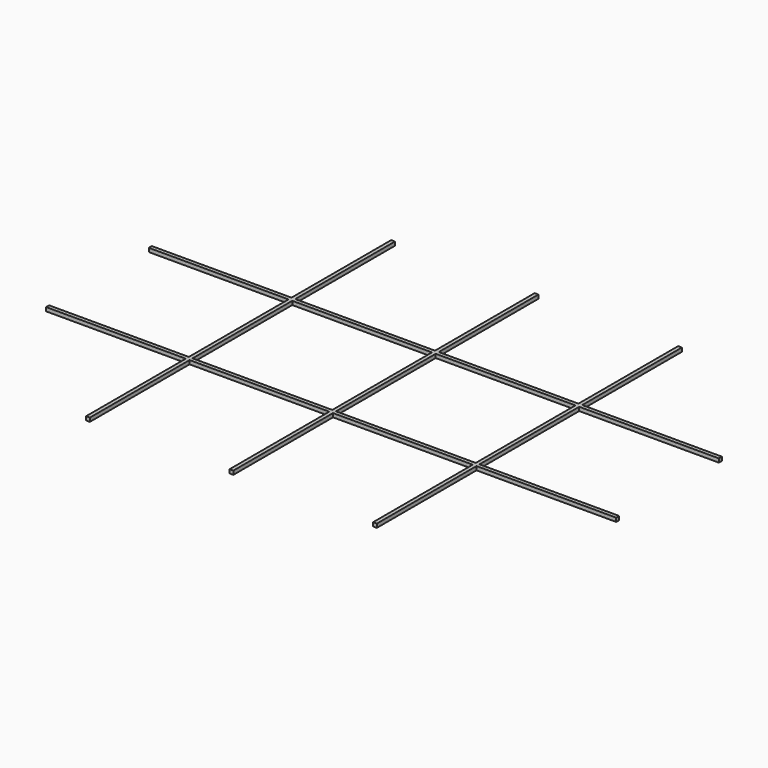
from build123d import *

# Parameters (mm, degrees)
F0_W     = 37
F0_H     = 33
F1_DEPTH = 1


with BuildPart() as f1:
    # F0 (on Top) → F1 (new body)
    with BuildSketch(Plane.XY):
        Polygon((-35.418198, 50.5), (-36.418198, 50.5), (-36.418198, 17.5), (-73.418198, 17.5), (-73.418198, 16.5), (-36.418198, 16.5), (-36.418198, -16.5), (-73.418198, -16.5), (-73.418198, -17.5), (-36.418198, -17.5), (-36.418198, -50.5), (-35.418198, -50.5), (-35.418198, -17.5), (1.581802, -17.5), (1.581802, -50.5), (2.581802, -50.5), (2.581802, -17.5), (39.581802, -17.5), (39.581802, -50.5), (40.581802, -50.5), (40.581802, -17.5), (77.581802, -17.5), (77.581802, -16.5), (40.581802, -16.5), (40.581802, 16.5), (77.581802, 16.5), (77.581802, 17.5), (40.581802, 17.5), (40.581802, 50.5), (39.581802, 50.5), (39.581802, 17.5), (2.581802, 17.5), (2.581802, 50.5), (1.581802, 50.5), (1.581802, 17.5), (-35.418198, 17.5), align=None)
        with Locations((-16.918198, 0)):
            Rectangle(F0_W, F0_H, mode=Mode.SUBTRACT)
        with Locations((21.081802, 0)):
            Rectangle(F0_W, F0_H, mode=Mode.SUBTRACT)
    extrude(amount=F1_DEPTH)


solid = f1.part
